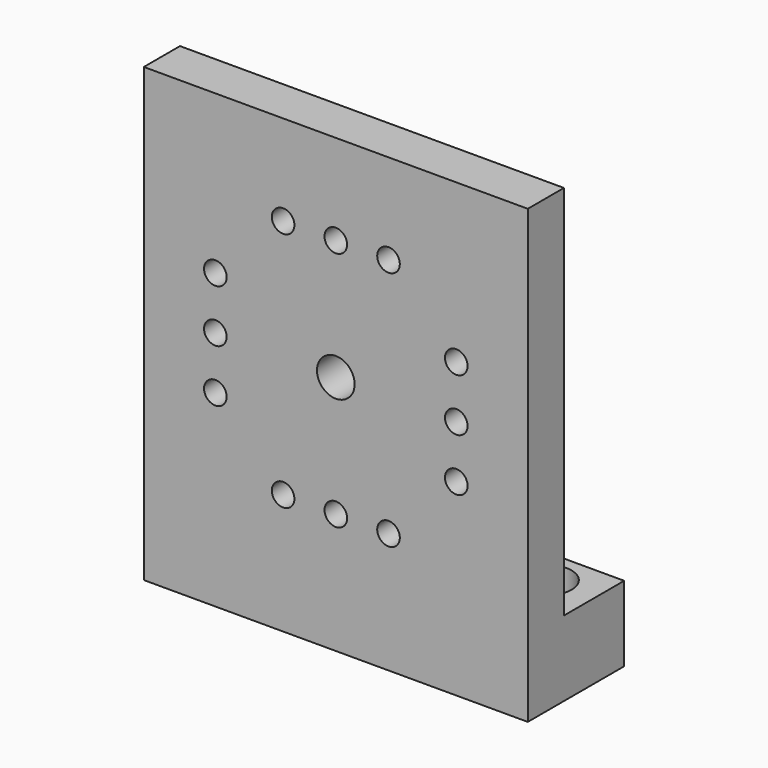
from build123d import *

# Parameters (mm, degrees)
F0_W     = 25.908
F0_H     = 5.08
F1_DEPTH = 3.048
F2_W     = 25.908
F2_H     = 3.048
F3_DEPTH = 28.448
F4_R     = 0.762
F4_R_2   = 1.27
F5_DEPTH = 25.4
F6_R     = 1.778
F7_DEPTH = 25.4
F8_DEPTH = 2.032


with BuildPart() as f1:
    # F0 (on Top) → F1 (new body)
    with BuildSketch(Plane.XY):
        Rectangle(F0_W, F0_H)
    extrude(amount=F1_DEPTH)

    # F2 (on face) → F3 (join)
    with BuildSketch(Plane(origin=(0, 0, 0), x_dir=(1, 0, 0), z_dir=(0, 0, -1))):
        with Locations((0, 4.064)):
            Rectangle(F2_W, F2_H)
    extrude(amount=-F3_DEPTH)

    # F4 (on face) → F5 (cut)
    with BuildSketch(Plane.XZ.offset(5.588)):
        with Locations((-8.128, 14.224)):
            Circle(F4_R)
        with Locations((-8.128, 17.78)):
            Circle(F4_R)
        with Locations((-8.128, 10.668)):
            Circle(F4_R)
        with Locations((-3.556, 6.096)):
            Circle(F4_R)
        with Locations((0, 6.096)):
            Circle(F4_R)
        with Locations((3.556, 6.096)):
            Circle(F4_R)
        with Locations((8.128, 10.668)):
            Circle(F4_R)
        with Locations((8.128, 14.224)):
            Circle(F4_R)
        with Locations((8.128, 17.78)):
            Circle(F4_R)
        with Locations((3.556, 22.352)):
            Circle(F4_R)
        with Locations((0, 22.352)):
            Circle(F4_R)
        with Locations((-3.556, 22.352)):
            Circle(F4_R)
        with Locations((0, 14.224)):
            Circle(F4_R_2)
    extrude(amount=-F5_DEPTH, mode=Mode.SUBTRACT)

    # F6 (on face) → F7 (cut)
    with BuildSketch(Plane.XY.offset(3.048)):
        with Locations((-9.652, 0)):
            Circle(F6_R)
        Circle(F6_R)
        with Locations((9.652, 0)):
            Circle(F6_R)
    extrude(amount=-F7_DEPTH, mode=Mode.SUBTRACT)

    # F8 (add): a face of the model
    f8_faces = [f1.faces().sort_by_distance(p)[0] for p in [
        (0, 2.2684693667, 0),
    ]]
    extrude(f8_faces, amount=F8_DEPTH)


solid = f1.part
